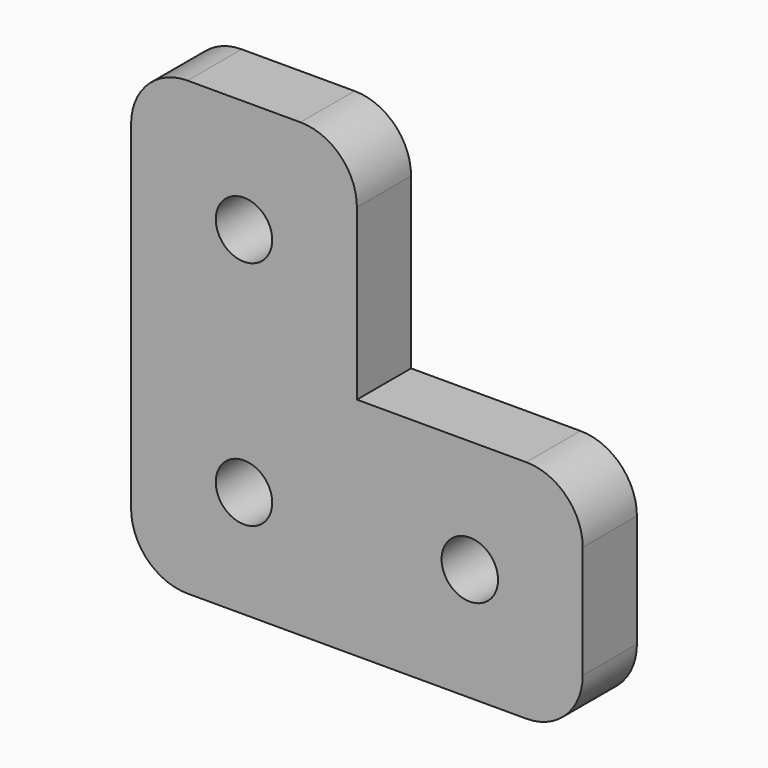
from build123d import *

# Parameters (mm, degrees)
F0_R     = 2.5
F1_DEPTH = 6


with BuildPart() as f1:
    # F0 (on Front) → F1 (new body)
    with BuildSketch(Plane.XZ):
        with BuildLine():
            ThreePointArc((0, 5), (1.464466, 1.464466), (5, 0))
            Line((5, 0), (20, 0))
            Line((20, 0), (20, 20))
            Line((20, 20), (0, 20))
            Line((0, 20), (0, 5))
        make_face()
        with Locations((10, 9.515507)):
            Circle(F0_R, mode=Mode.SUBTRACT)
        with BuildLine():
            Line((0, 20), (20, 20))
            Line((20, 20), (20, 35))
            ThreePointArc((20, 35), (18.535534, 38.535534), (15, 40))
            Line((15, 40), (5, 40))
            ThreePointArc((5, 40), (1.464466, 38.535534), (0, 35))
            Line((0, 35), (0, 20))
        make_face()
        with Locations((10, 30)):
            Circle(F0_R, mode=Mode.SUBTRACT)
        with BuildLine():
            Line((20, 20), (20, 0))
            Line((20, 0), (35, 0))
            ThreePointArc((35, 0), (38.535534, 1.464466), (40, 5))
            Line((40, 5), (40, 15))
            ThreePointArc((40, 15), (38.535534, 18.535534), (35, 20))
            Line((35, 20), (20, 20))
        make_face()
        with Locations((30, 10)):
            Circle(F0_R, mode=Mode.SUBTRACT)
    extrude(amount=F1_DEPTH)


solid = f1.part
